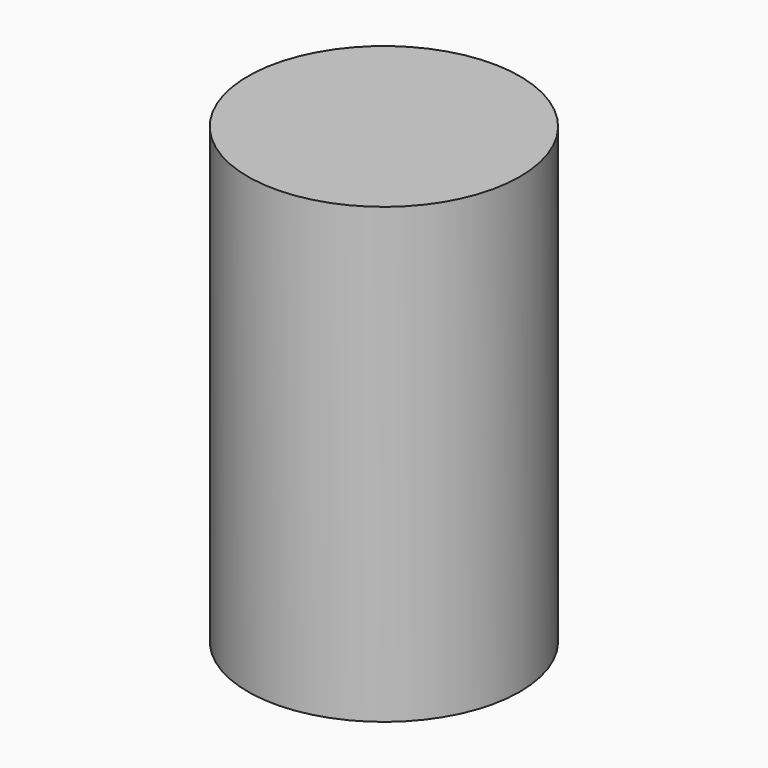
from build123d import *

# Parameters (mm, degrees)
SKETCH_R      = 15
EXTRUDE_DEPTH = 50


with BuildPart() as part:
    # Sketch → Extrude (new body)
    with BuildSketch(Plane.XY):
        Circle(SKETCH_R)
    extrude(amount=EXTRUDE_DEPTH)


solid = part.part
